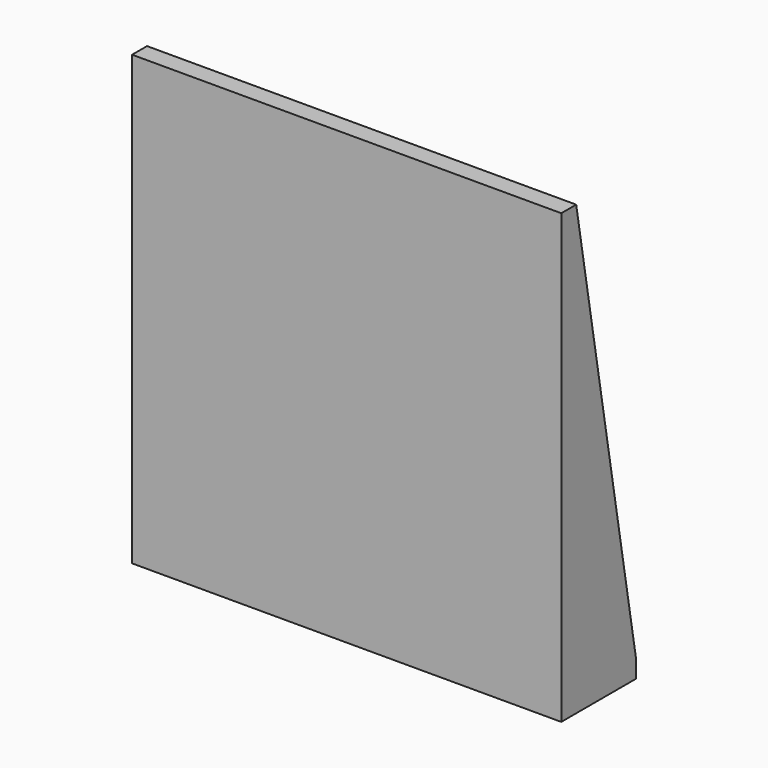
from build123d import *

# Parameters (mm, degrees)
SKETCH_W     = 46
SKETCH_H     = 10
PAD_DEPTH    = 2
SKETCH001_W  = 46
SKETCH001_H  = 2
PAD001_DEPTH = 46
PAD002_DEPTH = 2
SKETCH003_R  = 1.6
POCKET_DEPTH = 2.001


with BuildPart() as part:
    # Sketch → Pad (new body)
    with BuildSketch(Plane.XY):
        Rectangle(SKETCH_W, SKETCH_H)
    extrude(amount=PAD_DEPTH)

    # Sketch001 (on Face6 of Pad) → Pad001 (join)
    with BuildSketch(Plane.XY.offset(2)):
        with Locations((0, -4)):
            Rectangle(SKETCH001_W, SKETCH001_H)
    extrude(amount=PAD001_DEPTH)

    # Sketch002 (on Face8 of Pad001) → Pad002 (join)
    with BuildSketch(Plane.YZ.offset(23)):
        Polygon((-3, 48), (5, 2), (-3, 2), align=None)
    pad002 = extrude(amount=-PAD002_DEPTH)

    # Mirrored: Pad002 across YZ
    add(pad002.mirror(Plane.YZ))

    # Sketch003 (on Face5 of Mirrored) → Pocket (cut, through all)
    with BuildSketch(Plane.XY.offset(2)):
        with Locations((-12.5, 1)):
            Circle(SKETCH003_R)
        with Locations((12.5, 1)):
            Circle(SKETCH003_R)
    extrude(amount=-POCKET_DEPTH, mode=Mode.SUBTRACT)


solid = part.part
